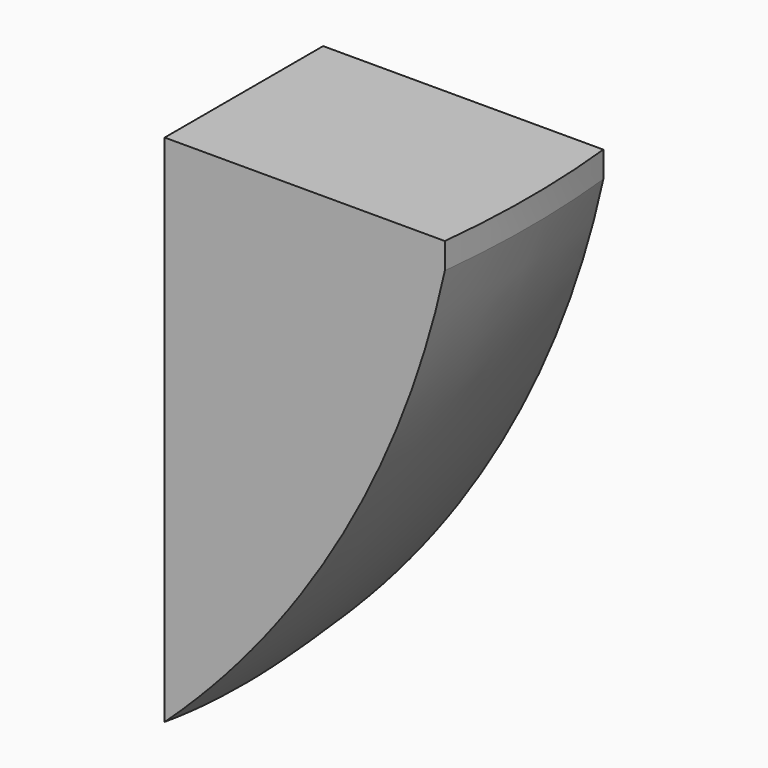
from build123d import *

# Parameters (mm, degrees)
BOX_W     = 15
BOX_H     = 10
BOX_DEPTH = 30


with BuildPart() as cubo:
    # Box → Box (new body)
    with BuildSketch(Plane(origin=(32, -5, -30), x_dir=(1, 0, 0), z_dir=(0, 0, 1))):
        with Locations((7.5, 5)):
            Rectangle(BOX_W, BOX_H)
    extrude(amount=BOX_DEPTH)


with BuildPart() as soporte:
    # Sketch001 → Revolution001 (revolve)
    with BuildSketch(Plane(origin=(0, 0, 0), x_dir=(1, 0, 0), z_dir=(0, 1, 0))):
        with BuildLine():
            Line((20, 50.804604), (20, 34.3146))
            ThreePointArc((46.417222, 1.3146), (37.081826, 20.915194), (20, 34.3146))
            Line((46.417222, 1.3146), (46.417222, -11.6854))
            Line((46.417222, -11.6854), (0, -11.6854))
            Line((0, 50.804604), (0, -11.6854))
            Line((20, 50.804604), (0, 50.804604))
        make_face()
    revolve(axis=Axis((0, 0, 0), (0, 0, -1)))

    # Common: intersect Cubo
    add(cubo.part, mode=Mode.INTERSECT)


solid = soporte.part
